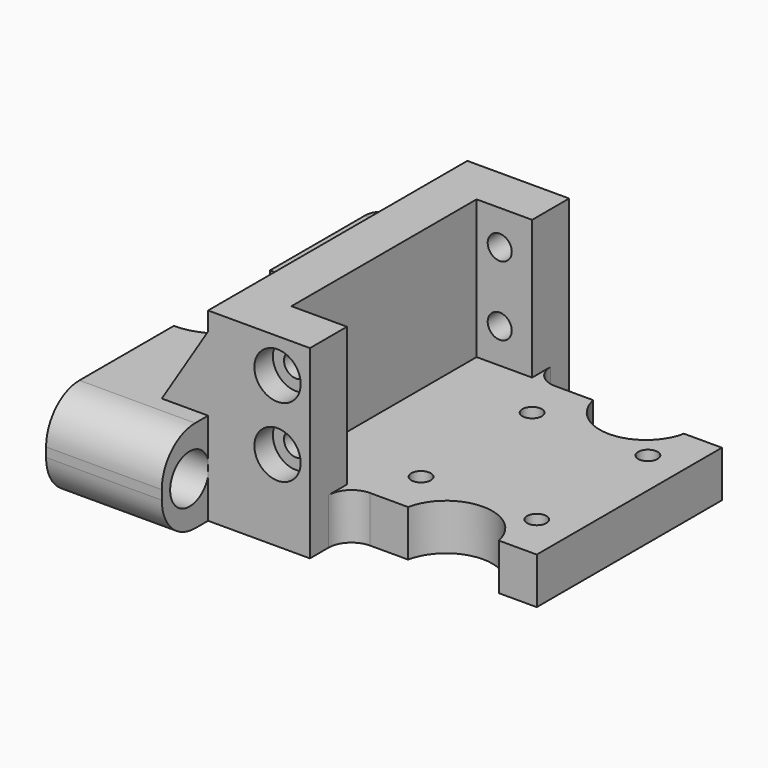
from build123d import *

# Parameters (mm, degrees)
SKETCH_R        = 2.1
PAD_DEPTH       = 5
SKETCH001_W     = 10
SKETCH001_H     = 50
PAD001_DEPTH    = 30
SKETCH002_W     = 22
SKETCH002_H     = 40
SKETCH002_R     = 2.6
PAD002_DEPTH    = 10
SKETCH004_R     = 5
POCKET001_DEPTH = 5
FILLET_R        = 5
SKETCH003_R     = 4.25
POCKET_DEPTH    = 5
PAD003_DEPTH    = 20
SKETCH006_R     = 2.75
POCKET002_DEPTH = 359.065568
SKETCH007_R     = 5.25
POCKET003_DEPTH = 10
CHAMFER_SIZE2   = 16
CHAMFER_SIZE    = 10
FILLET001_R     = 9
SKETCH008_R     = 6.5
POCKET004_DEPTH = 4


with BuildPart() as part:
    # Sketch → Pad (new body, symmetric)
    with BuildSketch(Plane.XY):
        with BuildLine():
            Line((-31.5, -25), (-31.5, 25))
            Line((-31.5, 25), (3.702041, 25))
            ThreePointArc((3.702041, 25), (13.5, 17), (23.297959, 25))
            Line((31.5, 25), (23.297959, 25))
            Line((31.5, 25), (31.5, -25))
            Line((23.297959, -25), (31.5, -25))
            ThreePointArc((23.297959, -25), (13.5, -17), (3.702041, -25))
            Line((-31.5, -25), (3.702041, -25))
        make_face()
        with Locations((-1.5, 15)):
            Circle(SKETCH_R, mode=Mode.SUBTRACT)
        with Locations((23.5, 15)):
            Circle(SKETCH_R, mode=Mode.SUBTRACT)
        with Locations((23.5, -15)):
            Circle(SKETCH_R, mode=Mode.SUBTRACT)
        with Locations((-1.5, -15)):
            Circle(SKETCH_R, mode=Mode.SUBTRACT)
    extrude(amount=PAD_DEPTH, both=True)

    # Sketch001 (on Face14 of Pad) → Pad001 (join)
    with BuildSketch(Plane.XY.offset(5)):
        with Locations((-26.5, 0)):
            Rectangle(SKETCH001_W, SKETCH001_H)
    extrude(amount=PAD001_DEPTH)

    # Sketch002 (on Face8 of Pad001) → Pad002 (join)
    with BuildSketch(Plane.XZ.offset(25)):
        with Locations((-20.5, 15)):
            Rectangle(SKETCH002_W, SKETCH002_H)
        with Locations((-16.5, 27.5)):
            Circle(SKETCH002_R, mode=Mode.SUBTRACT)
        with Locations((-16.5, 12.5)):
            Circle(SKETCH002_R, mode=Mode.SUBTRACT)
    pad002 = extrude(amount=PAD002_DEPTH)

    # Sketch004 (on Face20 of Pad002) → Pocket001 (cut)
    with BuildSketch(Plane.XZ.offset(35)):
        with Locations((-16.5, 27.5)):
            Circle(SKETCH004_R)
        with Locations((-16.5, 12.5)):
            Circle(SKETCH004_R)
    pocket001 = extrude(amount=-POCKET001_DEPTH, mode=Mode.SUBTRACT)

    # Mirrored: Pad002, Pocket001 across XZ
    add(pad002.mirror(Plane.XZ))
    add(pocket001.mirror(Plane.XZ), mode=Mode.SUBTRACT)

    # Fillet
    fillet_edges = [part.edges().sort_by_distance(p)[0] for p in [
        (-9.5, 25, 0),
        (-9.5, -25, 0),
    ]]
    fillet(fillet_edges, radius=FILLET_R)

    # Sketch003 (on Face2 of Fillet) → Pocket (cut)
    with BuildSketch(Plane(origin=(0, 0, -5), x_dir=(1, 0, 0), z_dir=(0, 0, -1))):
        with Locations((-1.5, 15)):
            Circle(SKETCH003_R)
        with Locations((23.5, 15)):
            Circle(SKETCH003_R)
        with Locations((23.5, -15)):
            Circle(SKETCH003_R)
        with Locations((-1.5, -15)):
            Circle(SKETCH003_R)
    extrude(amount=-POCKET_DEPTH, mode=Mode.SUBTRACT)

    # Sketch005 (on Face2 of Pocket) → Pad003 (join)
    with BuildSketch(Plane(origin=(0, 0, -5), x_dir=(1, 0, 0), z_dir=(0, 0, -1))):
        with BuildLine():
            ThreePointArc((-56.5, -13), (-43.5, 0), (-56.5, 13))
            Line((-56.5, 13), (-56.5, 47.5))
            Line((-56.5, 47.5), (-31.5, 47.5))
            Line((-31.5, -47.5), (-31.5, 47.5))
            Line((-56.5, -47.5), (-31.5, -47.5))
            Line((-56.5, -13), (-56.5, -47.5))
        make_face()
    extrude(amount=-PAD003_DEPTH)

    # Sketch006 (on Face35 of Pad003) → Pocket002 (cut, through all)
    with BuildSketch(Plane(origin=(-56.5, 0, 0), x_dir=(0, -1, 0), z_dir=(-1, 0, 0))):
        with Locations((-40, 5)):
            Circle(SKETCH006_R)
    pocket002 = extrude(amount=-POCKET002_DEPTH, mode=Mode.SUBTRACT)

    # Sketch007 (on Face32 of Pocket002) → Pocket003 (cut)
    with BuildSketch(Plane.YZ.offset(-31.5)):
        with Locations((40, 5)):
            Circle(SKETCH007_R)
    pocket003 = extrude(amount=-POCKET003_DEPTH, mode=Mode.SUBTRACT)

    # Mirrored001: Pocket002, Pocket003 across Sketch006 V_Axis
    add(pocket002.mirror(Plane(origin=(-56.5, 0, 0), x_dir=(-1, 0, 0), z_dir=(0, -1, 0))), mode=Mode.SUBTRACT)
    add(pocket003.mirror(Plane(origin=(-56.5, 0, 0), x_dir=(-1, 0, 0), z_dir=(0, -1, 0))), mode=Mode.SUBTRACT)

    # Chamfer
    chamfer_edges = [part.edges().sort_by_distance(p)[0] for p in [
        (-31.5, 0, 15),
    ]]
    chamfer_side = part.faces().sort_by_distance((-43.121304, 0, 15))[0]
    chamfer(chamfer_edges, length=CHAMFER_SIZE, length2=CHAMFER_SIZE2, reference=chamfer_side)

    # Fillet001
    fillet001_edges = [part.edges().sort_by_distance(p)[0] for p in [
        (-44, 47.5, 15),
        (-44, 47.5, -5),
        (-44, -47.5, 15),
        (-44, -47.5, -5),
    ]]
    fillet(fillet001_edges, radius=FILLET001_R)

    # Sketch008 (on Face14 of Fillet001) → Pocket004 (cut)
    with BuildSketch(Plane(origin=(0, 0, -5), x_dir=(1, 0, 0), z_dir=(0, 0, -1))):
        with Locations((-44, 30)):
            Circle(SKETCH008_R)
        with Locations((16, 0)):
            Circle(SKETCH008_R)
        with Locations((-44, -30)):
            Circle(SKETCH008_R)
    extrude(amount=-POCKET004_DEPTH, mode=Mode.SUBTRACT)


solid = part.part
